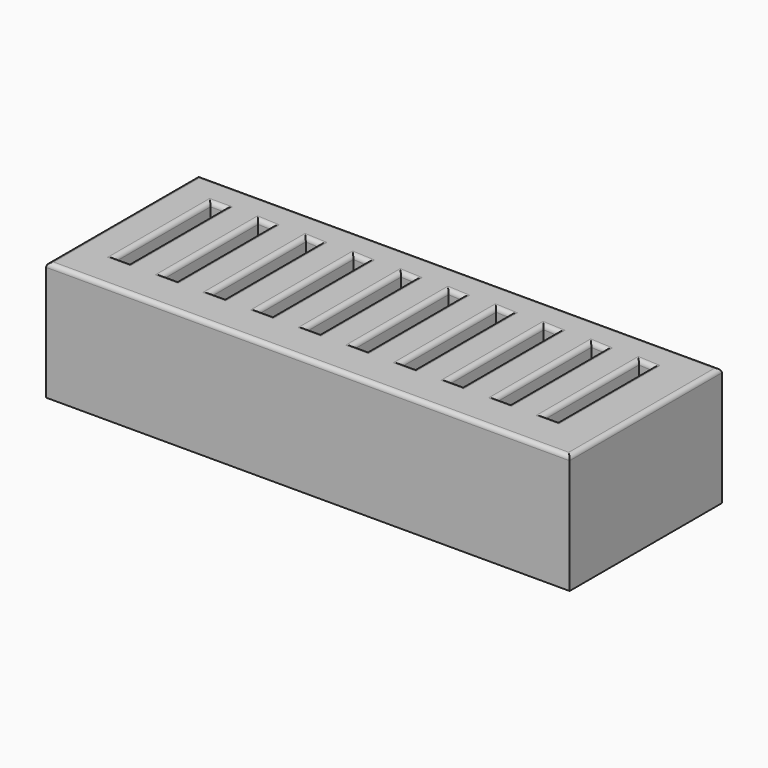
from build123d import *

# Parameters (mm, degrees)
F0_W     = 110
F0_H     = 40
F1_DEPTH = 25
F2_W     = 3
F2_H     = 25
F3_DEPTH = 20
F4_R     = 0.9


with BuildPart() as f1:
    # F0 (on Top) → F1 (new body)
    with BuildSketch(Plane.XY):
        with Locations((0.478346, 3.515624)):
            Rectangle(F0_W, F0_H)
    extrude(amount=F1_DEPTH)

    # F2 (on face) → F3 (cut)
    with BuildSketch(Plane.XY.offset(25)):
        with Locations((-45.382225, 4.651876)):
            Rectangle(F2_W, F2_H)
        Polygon((-36.882324, 17.171759), (-36.882324, -7.828241), (-33.882324, -7.828241), (-33.882324, 17.01556), align=None)
        Polygon((-26.882324, 17.171759), (-26.882324, -7.828241), (-23.882324, -7.828241), (-23.882324, 17.01556), align=None)
        Polygon((-16.882324, 17.171759), (-16.882324, -7.828241), (-13.882324, -7.828241), (-13.882324, 17.01556), align=None)
        Polygon((-6.882324, 17.171759), (-6.882324, -7.828241), (-3.882324, -7.828241), (-3.882324, 17.01556), align=None)
        Polygon((3.117676, 17.171759), (3.117676, -7.828241), (6.117676, -7.828241), (6.117676, 17.01556), align=None)
        Polygon((13.117676, 17.171759), (13.117676, -7.828241), (16.117676, -7.828241), (16.117676, 17.01556), align=None)
        Polygon((23.117676, 17.171759), (23.117676, -7.828241), (26.117676, -7.828241), (26.117676, 17.01556), align=None)
        Polygon((33.117676, 17.171759), (33.117676, -7.828241), (36.117676, -7.828241), (36.117676, 17.01556), align=None)
        Polygon((43.117676, 17.171759), (43.117676, -7.828241), (46.117676, -7.828241), (46.117676, 17.01556), align=None)
    extrude(amount=-F3_DEPTH, mode=Mode.SUBTRACT)

    # F4
    f4_edges = [f1.edges().sort_by_distance(p)[0] for p in [
        (0.478346, -16.484376, 25),
        (-54.521654, 3.515624, 25),
        (55.478346, 3.515624, 25),
        (0.478346, 23.515624, 25),
        (-46.882225, 4.651876, 25),
        (-45.382225, -7.848124, 25),
        (-43.882225, 4.651876, 25),
        (-45.382225, 17.151876, 25),
        (-36.882324, 4.671759, 25),
        (-35.382324, -7.828241, 25),
        (-33.882324, 4.593659, 25),
        (-35.382324, 17.093659, 25),
        (-26.882324, 4.671759, 25),
        (-25.382324, -7.828241, 25),
        (-23.882324, 4.593659, 25),
        (-25.382324, 17.093659, 25),
        (-16.882324, 4.671759, 25),
        (-15.382324, -7.828241, 25),
        (-13.882324, 4.593659, 25),
        (-15.382324, 17.093659, 25),
        (-6.882324, 4.671759, 25),
        (-5.382324, -7.828241, 25),
        (-3.882324, 4.593659, 25),
        (-5.382324, 17.093659, 25),
        (3.117676, 4.671759, 25),
        (4.617676, -7.828241, 25),
        (6.117676, 4.593659, 25),
        (4.617676, 17.093659, 25),
        (13.117676, 4.671759, 25),
        (14.617676, -7.828241, 25),
        (16.117676, 4.593659, 25),
        (14.617676, 17.093659, 25),
        (23.117676, 4.671759, 25),
        (24.617676, -7.828241, 25),
        (26.117676, 4.593659, 25),
        (24.617676, 17.093659, 25),
        (33.117676, 4.671759, 25),
        (34.617676, -7.828241, 25),
        (36.117676, 4.593659, 25),
        (34.617676, 17.093659, 25),
        (43.117676, 4.671759, 25),
        (44.617676, -7.828241, 25),
        (46.117676, 4.593659, 25),
        (44.617676, 17.093659, 25),
    ]]
    fillet(f4_edges, radius=F4_R)


solid = f1.part
